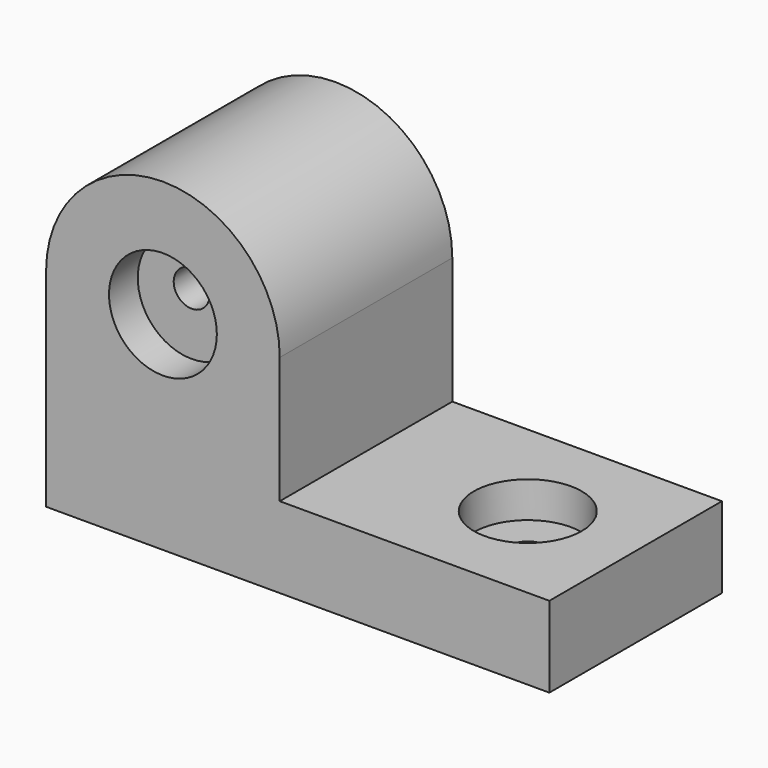
from build123d import *

# Parameters (mm, degrees)
F1_DEPTH  = 76.2
F3_DEPTH  = 76.201
F4_R      = 19.05
F5_DEPTH  = 12.7
F6_R      = 6.35
F7_DEPTH  = 76.201
F8_R      = 19.05
F9_DEPTH  = 12.7
F10_R     = 6.35
F11_DEPTH = 114.552047


with BuildPart() as f1:
    # F0 (on Front) → F1 (new body)
    with BuildSketch(Plane.XZ):
        Polygon((0, 127), (0, 0), (177.8, 0), (177.8, 28.575), (82.55, 28.575), (82.55, 127), align=None)
    extrude(amount=F1_DEPTH)

    # F2 (on face) → F3 (cut, through all)
    with BuildSketch(Plane.XZ.offset(76.2)):
        with BuildLine():
            ThreePointArc((0, 73.276047), (41.275, 114.551047), (82.55, 73.276047))
            Line((82.55, 73.276047), (82.55, 127))
            Line((82.55, 127), (0, 127))
            Line((0, 127), (0, 73.276047))
        make_face()
    extrude(amount=-F3_DEPTH, mode=Mode.SUBTRACT)

    # F4 (on face) → F5 (cut)
    with BuildSketch(Plane.XZ.offset(76.2)):
        with Locations((41.275, 73.276047)):
            Circle(F4_R)
    extrude(amount=-F5_DEPTH, mode=Mode.SUBTRACT)

    # F6 (on face) → F7 (cut, through all)
    with BuildSketch(Plane(origin=(0, 0, 0), x_dir=(-1, 0, 0), z_dir=(0, 1, 0))):
        with Locations((-41.275, 76.2)):
            Circle(F6_R)
    extrude(amount=-F7_DEPTH, mode=Mode.SUBTRACT)

    # F8 (on face) → F9 (cut)
    with BuildSketch(Plane.XY.offset(28.575)):
        with Locations((139.7, -38.1)):
            Circle(F8_R)
    extrude(amount=-F9_DEPTH, mode=Mode.SUBTRACT)

    # F10 (on face) → F11 (cut, through all)
    with BuildSketch(Plane(origin=(0, 0, 0), x_dir=(1, 0, 0), z_dir=(0, 0, -1))):
        with Locations((139.7, 38.1)):
            Circle(F10_R)
    extrude(amount=-F11_DEPTH, mode=Mode.SUBTRACT)


solid = f1.part
